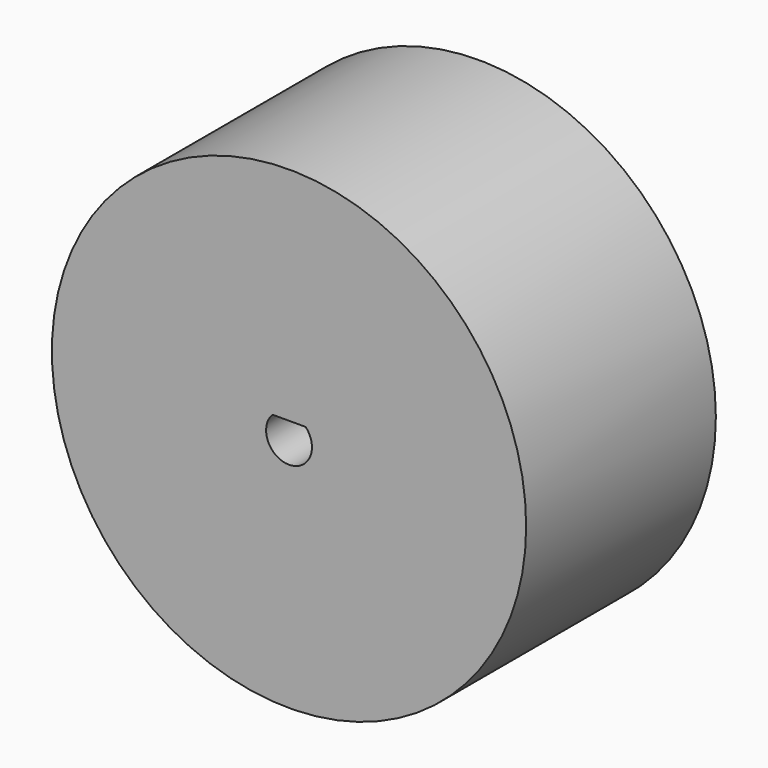
from build123d import *

# Parameters (mm, degrees)
F0_R     = 15
F1_DEPTH = 15
F3_DEPTH = 5.5


with BuildPart() as f1:
    # F0 (on Front) → F1 (new body)
    with BuildSketch(Plane.XZ):
        Circle(F0_R)
    extrude(amount=-F1_DEPTH)

    # F2 (on face) → F3 (cut)
    with BuildSketch(Plane.XZ):
        with BuildLine():
            ThreePointArc((-1.05, 1), (-0.538516, -1.346291), (1.45, 0))
            ThreePointArc((1.45, 0), (1.346291, 0.538516), (1.05, 1))
            Line((1.05, 1), (-1.05, 1))
        make_face()
    extrude(amount=-F3_DEPTH, mode=Mode.SUBTRACT)


solid = f1.part
